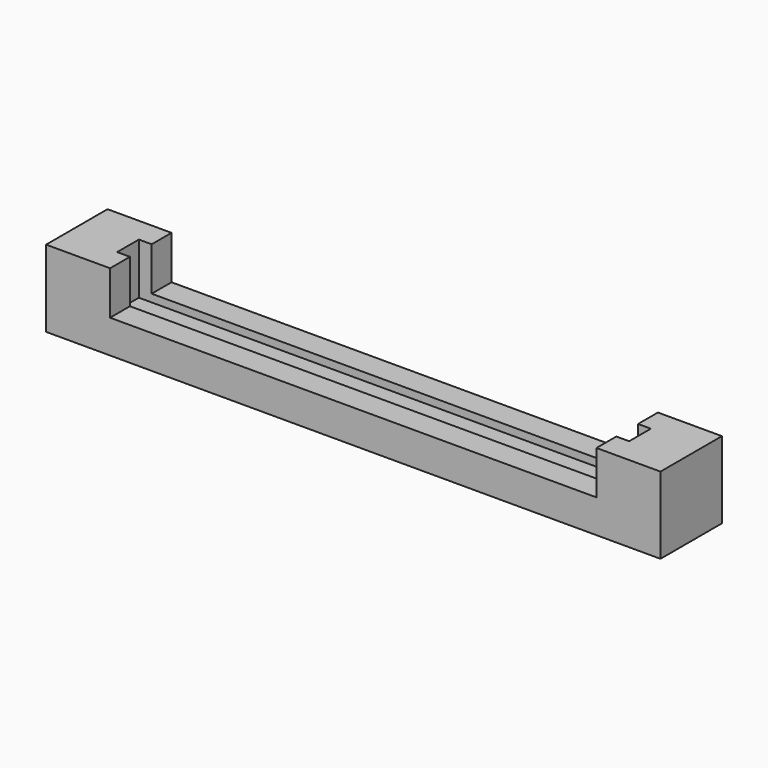
from build123d import *

# Parameters (mm, degrees)
F0_W     = 190
F0_H     = 9.6947368307
F0_H_2   = 10.6105263385
F0_W_2   = 5
F1_DEPTH = 10
F2_DEPTH = 13
F3_DEPTH = 30


with BuildPart() as f1:
    # F0 (on Top) → F1 (new body)
    with BuildSketch(Plane.XY):
        Polygon((-95, 15), (-120, 15), (-120, -15), (-95, -15), (-95, -5.3052631693), (-100, -5.3052631693), (-100, 5.3052631693), (-95, 5.3052631693), align=None)
        with Locations((0, 10.1526315846)):
            Rectangle(F0_W, F0_H)
        Polygon((120, 15), (95, 15), (95, 5.3052631693), (100, 5.3052631693), (100, -5.3052631693), (95, -5.3052631693), (95, -15), (120, -15), align=None)
        with Locations((0, -10.1526315846)):
            Rectangle(F0_W, F0_H)
        Rectangle(F0_W, F0_H_2)
        with Locations((-97.5, 0)):
            Rectangle(F0_W_2, F0_H_2)
        with Locations((97.5, 0)):
            Rectangle(F0_W_2, F0_H_2)
    extrude(amount=F1_DEPTH)

    # F0 (on Top) → F2 (join)
    with BuildSketch(Plane.XY):
        Polygon((-95, 15), (-120, 15), (-120, -15), (-95, -15), (-95, -5.3052631693), (-100, -5.3052631693), (-100, 5.3052631693), (-95, 5.3052631693), align=None)
        with Locations((0, 10.1526315846)):
            Rectangle(F0_W, F0_H)
        Polygon((120, 15), (95, 15), (95, 5.3052631693), (100, 5.3052631693), (100, -5.3052631693), (95, -5.3052631693), (95, -15), (120, -15), align=None)
        with Locations((0, -10.1526315846)):
            Rectangle(F0_W, F0_H)
    extrude(amount=F2_DEPTH)

    # F0 (on Top) → F3 (join)
    with BuildSketch(Plane.XY):
        Polygon((-95, 15), (-120, 15), (-120, -15), (-95, -15), (-95, -5.3052631693), (-100, -5.3052631693), (-100, 5.3052631693), (-95, 5.3052631693), align=None)
        Polygon((120, 15), (95, 15), (95, 5.3052631693), (100, 5.3052631693), (100, -5.3052631693), (95, -5.3052631693), (95, -15), (120, -15), align=None)
    extrude(amount=F3_DEPTH)


solid = f1.part
